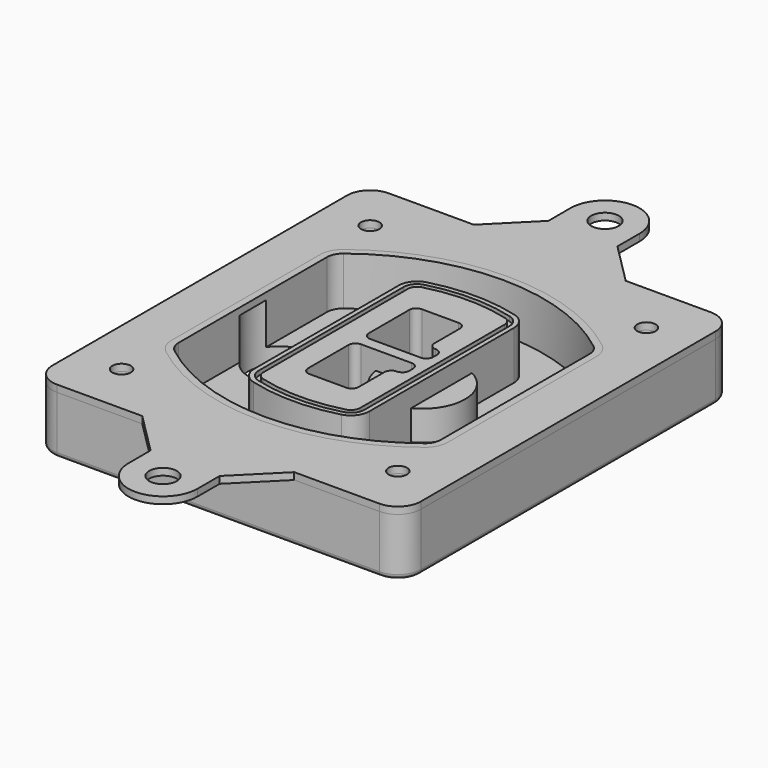
from build123d import *

# Parameters (mm, degrees)
F0_R      = 4
F1_DEPTH  = 25
F2_DEPTH  = 3
F3_DEPTH  = 18
F5_DEPTH  = 21
F6_DEPTH  = 2
F8_DEPTH  = 20
F9_DEPTH  = 16
F10_DEPTH = 25
F7_R      = 6
F7_R_2    = 4
F11_DEPTH = 6
F12_R     = 2
F13_R     = 6
F13_R_2   = 4
F14_DEPTH = 3


with BuildPart() as f1:
    # F0 (on Top) → F1 (new body)
    with BuildSketch(Plane.XY):
        with BuildLine():
            ThreePointArc((-80, -80), (-77.0710678119, -87.0710678119), (-70, -90))
            Line((-70, -90), (70, -90))
            ThreePointArc((70, -90), (77.0710678119, -87.0710678119), (80, -80))
            Line((80, -80), (80, 80))
            ThreePointArc((80, 80), (77.0710678119, 87.0710678119), (70, 90))
            Line((70, 90), (-70, 90))
            ThreePointArc((-70, 90), (-77.0710678119, 87.0710678119), (-80, 80))
            Line((-80, 80), (-80, -80))
        make_face()
        with Locations((-60, -67.5)):
            Circle(F0_R, mode=Mode.SUBTRACT)
        with Locations((60, -67.5)):
            Circle(F0_R, mode=Mode.SUBTRACT)
        with Locations((-60, 67.5)):
            Circle(F0_R, mode=Mode.SUBTRACT)
        with BuildLine():
            ThreePointArc((-64, 40.2934422872), (-62.5820384798, 46.4328484224), (-58.6153846154, 51.3286200352))
            ThreePointArc((-58.6153846154, 51.3286200352), (0, 71.5), (58.6153846154, 51.3286200352))
            ThreePointArc((58.6153846154, 51.3286200352), (62.5820384798, 46.4328484224), (64, 40.2934422872))
            Line((64, 40.2934422872), (64, -40.2934422872))
            ThreePointArc((64, -40.2934422872), (62.5820384798, -46.4328484224), (58.6153846154, -51.3286200352))
            ThreePointArc((58.6153846154, -51.3286200352), (0, -71.5), (-58.6153846154, -51.3286200352))
            ThreePointArc((-58.6153846154, -51.3286200352), (-62.5820384798, -46.4328484224), (-64, -40.2934422872))
            Line((-64, -40.2934422872), (-64, 40.2934422872))
        make_face(mode=Mode.SUBTRACT)
        with Locations((60, 67.5)):
            Circle(F0_R, mode=Mode.SUBTRACT)
        with BuildLine():
            ThreePointArc((58.6153846154, 51.3286200352), (0, 71.5), (-58.6153846154, 51.3286200352))
            ThreePointArc((-58.6153846154, 51.3286200352), (-62.5820384798, 46.4328484224), (-64, 40.2934422872))
            Line((-64, 40.2934422872), (-64, -40.2934422872))
            ThreePointArc((-64, -40.2934422872), (-62.5820384798, -46.4328484224), (-58.6153846154, -51.3286200352))
            ThreePointArc((-58.6153846154, -51.3286200352), (0, -71.5), (58.6153846154, -51.3286200352))
            ThreePointArc((58.6153846154, -51.3286200352), (62.5820384798, -46.4328484224), (64, -40.2934422872))
            Line((64, -40.2934422872), (64, 40.2934422872))
            ThreePointArc((64, 40.2934422872), (62.5820384798, 46.4328484224), (58.6153846154, 51.3286200352))
        make_face()
        with BuildLine():
            Line((-60, -40.2934422872), (-60, 40.2934422872))
            ThreePointArc((-60, 40.2934422872), (-58.9871703427, 44.6787323838), (-56.1538461538, 48.1757121072))
            ThreePointArc((-56.1538461538, 48.1757121072), (0, 67.5), (56.1538461538, 48.1757121072))
            ThreePointArc((56.1538461538, 48.1757121072), (58.9871703427, 44.6787323838), (60, 40.2934422872))
            Line((60, 40.2934422872), (60, -40.2934422872))
            ThreePointArc((60, -40.2934422872), (58.9871703427, -44.6787323838), (56.1538461538, -48.1757121072))
            ThreePointArc((56.1538461538, -48.1757121072), (0, -67.5), (-56.1538461538, -48.1757121072))
            ThreePointArc((-56.1538461538, -48.1757121072), (-58.9871703427, -44.6787323838), (-60, -40.2934422872))
        make_face(mode=Mode.SUBTRACT)
        with BuildLine():
            ThreePointArc((-56.1538461538, 48.1757121072), (-58.9871703427, 44.6787323838), (-60, 40.2934422872))
            Line((-60, 40.2934422872), (-60, -40.2934422872))
            ThreePointArc((-60, -40.2934422872), (-58.9871703427, -44.6787323838), (-56.1538461538, -48.1757121072))
            ThreePointArc((-56.1538461538, -48.1757121072), (0, -67.5), (56.1538461538, -48.1757121072))
            ThreePointArc((56.1538461538, -48.1757121072), (58.9871703427, -44.6787323838), (60, -40.2934422872))
            Line((60, -40.2934422872), (60, 40.2934422872))
            ThreePointArc((60, 40.2934422872), (58.9871703427, 44.6787323838), (56.1538461538, 48.1757121072))
            ThreePointArc((56.1538461538, 48.1757121072), (0, 67.5), (-56.1538461538, 48.1757121072))
        make_face()
        with BuildLine():
            ThreePointArc((54.3076923077, 45.8110311612), (56.2910192399, 43.3631453548), (57, 40.2934422872))
            Line((57, 40.2934422872), (57, -40.2934422872))
            ThreePointArc((57, -40.2934422872), (56.2910192399, -43.3631453548), (54.3076923077, -45.8110311612))
            ThreePointArc((54.3076923077, -45.8110311612), (0, -64.5), (-54.3076923077, -45.8110311612))
            ThreePointArc((-54.3076923077, -45.8110311612), (-56.2910192399, -43.3631453548), (-57, -40.2934422872))
            Line((-57, -40.2934422872), (-57, 40.2934422872))
            ThreePointArc((-57, 40.2934422872), (-56.2910192399, 43.3631453548), (-54.3076923077, 45.8110311612))
            ThreePointArc((-54.3076923077, 45.8110311612), (0, 64.5), (54.3076923077, 45.8110311612))
        make_face(mode=Mode.SUBTRACT)
        with BuildLine():
            Line((57, -40.2934422872), (57, 40.2934422872))
            ThreePointArc((57, 40.2934422872), (56.2910192399, 43.3631453548), (54.3076923077, 45.8110311612))
            ThreePointArc((54.3076923077, 45.8110311612), (0, 64.5), (-54.3076923077, 45.8110311612))
            ThreePointArc((-54.3076923077, 45.8110311612), (-56.2910192399, 43.3631453548), (-57, 40.2934422872))
            Line((-57, 40.2934422872), (-57, -40.2934422872))
            ThreePointArc((-57, -40.2934422872), (-56.2910192399, -43.3631453548), (-54.3076923077, -45.8110311612))
            ThreePointArc((-54.3076923077, -45.8110311612), (0, -64.5), (54.3076923077, -45.8110311612))
            ThreePointArc((54.3076923077, -45.8110311612), (56.2910192399, -43.3631453548), (57, -40.2934422872))
        make_face()
    extrude(amount=-F1_DEPTH)

    # F0 (on Top) → F2 (join)
    with BuildSketch(Plane.XY):
        with BuildLine():
            ThreePointArc((-56.1538461538, 48.1757121072), (-58.9871703427, 44.6787323838), (-60, 40.2934422872))
            Line((-60, 40.2934422872), (-60, -40.2934422872))
            ThreePointArc((-60, -40.2934422872), (-58.9871703427, -44.6787323838), (-56.1538461538, -48.1757121072))
            ThreePointArc((-56.1538461538, -48.1757121072), (0, -67.5), (56.1538461538, -48.1757121072))
            ThreePointArc((56.1538461538, -48.1757121072), (58.9871703427, -44.6787323838), (60, -40.2934422872))
            Line((60, -40.2934422872), (60, 40.2934422872))
            ThreePointArc((60, 40.2934422872), (58.9871703427, 44.6787323838), (56.1538461538, 48.1757121072))
            ThreePointArc((56.1538461538, 48.1757121072), (0, 67.5), (-56.1538461538, 48.1757121072))
        make_face()
        with BuildLine():
            ThreePointArc((54.3076923077, 45.8110311612), (56.2910192399, 43.3631453548), (57, 40.2934422872))
            Line((57, 40.2934422872), (57, -40.2934422872))
            ThreePointArc((57, -40.2934422872), (56.2910192399, -43.3631453548), (54.3076923077, -45.8110311612))
            ThreePointArc((54.3076923077, -45.8110311612), (0, -64.5), (-54.3076923077, -45.8110311612))
            ThreePointArc((-54.3076923077, -45.8110311612), (-56.2910192399, -43.3631453548), (-57, -40.2934422872))
            Line((-57, -40.2934422872), (-57, 40.2934422872))
            ThreePointArc((-57, 40.2934422872), (-56.2910192399, 43.3631453548), (-54.3076923077, 45.8110311612))
            ThreePointArc((-54.3076923077, 45.8110311612), (0, 64.5), (54.3076923077, 45.8110311612))
        make_face(mode=Mode.SUBTRACT)
    extrude(amount=F2_DEPTH)

    # F0 (on Top) → F3 (cut)
    with BuildSketch(Plane.XY):
        with BuildLine():
            Line((57, -40.2934422872), (57, 40.2934422872))
            ThreePointArc((57, 40.2934422872), (56.2910192399, 43.3631453548), (54.3076923077, 45.8110311612))
            ThreePointArc((54.3076923077, 45.8110311612), (0, 64.5), (-54.3076923077, 45.8110311612))
            ThreePointArc((-54.3076923077, 45.8110311612), (-56.2910192399, 43.3631453548), (-57, 40.2934422872))
            Line((-57, 40.2934422872), (-57, -40.2934422872))
            ThreePointArc((-57, -40.2934422872), (-56.2910192399, -43.3631453548), (-54.3076923077, -45.8110311612))
            ThreePointArc((-54.3076923077, -45.8110311612), (0, -64.5), (54.3076923077, -45.8110311612))
            ThreePointArc((54.3076923077, -45.8110311612), (56.2910192399, -43.3631453548), (57, -40.2934422872))
        make_face()
    extrude(amount=-F3_DEPTH, mode=Mode.SUBTRACT)

    # F4 (on face) → F5 (join, through all)
    with BuildSketch(Plane.XY.offset(3)):
        with BuildLine():
            ThreePointArc((-25, -39.2465276821), (-23.3511545998, -44.1109737193), (-19.0842911877, -46.9702398883))
            ThreePointArc((-19.0842911877, -46.9702398883), (0, -49.5), (19.0842911877, -46.9702398883))
            ThreePointArc((19.0842911877, -46.9702398883), (23.3511545998, -44.1109737193), (25, -39.2465276821))
            Line((25, -39.2465276821), (25, 39.2465276821))
            ThreePointArc((25, 39.2465276821), (23.3511545998, 44.1109737193), (19.0842911877, 46.9702398883))
            ThreePointArc((19.0842911877, 46.9702398883), (0, 49.5), (-19.0842911877, 46.9702398883))
            ThreePointArc((-19.0842911877, 46.9702398883), (-23.3511545998, 44.1109737193), (-25, 39.2465276821))
            Line((-25, 39.2465276821), (-25, -39.2465276821))
        make_face()
        with BuildLine():
            ThreePointArc((18.5632183908, 45.0393118368), (21.7633659499, 42.89486221), (23, 39.2465276821))
            Line((23, 39.2465276821), (23, -39.2465276821))
            ThreePointArc((23, -39.2465276821), (21.7633659499, -42.89486221), (18.5632183908, -45.0393118368))
            ThreePointArc((18.5632183908, -45.0393118368), (0, -47.5), (-18.5632183908, -45.0393118368))
            ThreePointArc((-18.5632183908, -45.0393118368), (-21.7633659499, -42.89486221), (-23, -39.2465276821))
            Line((-23, -39.2465276821), (-23, 39.2465276821))
            ThreePointArc((-23, 39.2465276821), (-21.7633659499, 42.89486221), (-18.5632183908, 45.0393118368))
            ThreePointArc((-18.5632183908, 45.0393118368), (0, 47.5), (18.5632183908, 45.0393118368))
        make_face(mode=Mode.SUBTRACT)
        with BuildLine():
            Line((23, -39.2465276821), (23, 39.2465276821))
            ThreePointArc((23, 39.2465276821), (21.7633659499, 42.89486221), (18.5632183908, 45.0393118368))
            ThreePointArc((18.5632183908, 45.0393118368), (0, 47.5), (-18.5632183908, 45.0393118368))
            ThreePointArc((-18.5632183908, 45.0393118368), (-21.7633659499, 42.89486221), (-23, 39.2465276821))
            Line((-23, 39.2465276821), (-23, -39.2465276821))
            ThreePointArc((-23, -39.2465276821), (-21.7633659499, -42.89486221), (-18.5632183908, -45.0393118368))
            ThreePointArc((-18.5632183908, -45.0393118368), (0, -47.5), (18.5632183908, -45.0393118368))
            ThreePointArc((18.5632183908, -45.0393118368), (21.7633659499, -42.89486221), (23, -39.2465276821))
        make_face()
        with BuildLine():
            ThreePointArc((18.0421455939, 43.1083837852), (20.1755772999, 41.6787507007), (21, 39.2465276821))
            Line((21, 39.2465276821), (21, -39.2465276821))
            ThreePointArc((21, -39.2465276821), (20.1755772999, -41.6787507007), (18.0421455939, -43.1083837852))
            ThreePointArc((18.0421455939, -43.1083837852), (0, -45.5), (-18.0421455939, -43.1083837852))
            ThreePointArc((-18.0421455939, -43.1083837852), (-20.1755772999, -41.6787507007), (-21, -39.2465276821))
            Line((-21, -39.2465276821), (-21, 39.2465276821))
            ThreePointArc((-21, 39.2465276821), (-20.1755772999, 41.6787507007), (-18.0421455939, 43.1083837852))
            ThreePointArc((-18.0421455939, 43.1083837852), (0, 45.5), (18.0421455939, 43.1083837852))
        make_face(mode=Mode.SUBTRACT)
        with BuildLine():
            Line((21, -39.2465276821), (21, 39.2465276821))
            ThreePointArc((21, 39.2465276821), (20.1755772999, 41.6787507007), (18.0421455939, 43.1083837852))
            ThreePointArc((18.0421455939, 43.1083837852), (0, 45.5), (-18.0421455939, 43.1083837852))
            ThreePointArc((-18.0421455939, 43.1083837852), (-20.1755772999, 41.6787507007), (-21, 39.2465276821))
            Line((-21, 39.2465276821), (-21, -39.2465276821))
            ThreePointArc((-21, -39.2465276821), (-20.1755772999, -41.6787507007), (-18.0421455939, -43.1083837852))
            ThreePointArc((-18.0421455939, -43.1083837852), (0, -45.5), (18.0421455939, -43.1083837852))
            ThreePointArc((18.0421455939, -43.1083837852), (20.1755772999, -41.6787507007), (21, -39.2465276821))
        make_face()
        with BuildLine():
            Line((-8, -2.5), (14, -2.5))
            ThreePointArc((14, -2.5), (16.1213203436, -3.3786796564), (17, -5.5))
            Line((17, -5.5), (17, -7.5))
            ThreePointArc((17, -7.5), (16.1213203436, -9.6213203436), (14, -10.5))
            ThreePointArc((14, -10.5), (11.8786796564, -11.3786796564), (11, -13.5))
            Line((11, -13.5), (11, -27.5))
            ThreePointArc((11, -27.5), (10.1213203436, -29.6213203436), (8, -30.5))
            Line((8, -30.5), (-8, -30.5))
            ThreePointArc((-8, -30.5), (-10.1213203436, -29.6213203436), (-11, -27.5))
            Line((-11, -27.5), (-11, -5.5))
            ThreePointArc((-11, -5.5), (-10.1213203436, -3.3786796564), (-8, -2.5))
        make_face(mode=Mode.SUBTRACT)
        with BuildLine():
            ThreePointArc((-8, 2.5), (-10.1213203436, 3.3786796564), (-11, 5.5))
            Line((-11, 5.5), (-11, 27.5))
            ThreePointArc((-11, 27.5), (-10.1213203436, 29.6213203436), (-8, 30.5))
            Line((-8, 30.5), (8, 30.5))
            ThreePointArc((8, 30.5), (10.1213203436, 29.6213203436), (11, 27.5))
            Line((11, 27.5), (11, 13.5))
            ThreePointArc((11, 13.5), (11.8786796564, 11.3786796564), (14, 10.5))
            ThreePointArc((14, 10.5), (16.1213203436, 9.6213203436), (17, 7.5))
            Line((17, 7.5), (17, 5.5))
            ThreePointArc((17, 5.5), (16.1213203436, 3.3786796564), (14, 2.5))
            Line((14, 2.5), (-8, 2.5))
        make_face(mode=Mode.SUBTRACT)
    extrude(amount=-F5_DEPTH)

    # F4 (on face) → F6 (cut)
    with BuildSketch(Plane.XY.offset(3)):
        with BuildLine():
            Line((23, -39.2465276821), (23, 39.2465276821))
            ThreePointArc((23, 39.2465276821), (21.7633659499, 42.89486221), (18.5632183908, 45.0393118368))
            ThreePointArc((18.5632183908, 45.0393118368), (0, 47.5), (-18.5632183908, 45.0393118368))
            ThreePointArc((-18.5632183908, 45.0393118368), (-21.7633659499, 42.89486221), (-23, 39.2465276821))
            Line((-23, 39.2465276821), (-23, -39.2465276821))
            ThreePointArc((-23, -39.2465276821), (-21.7633659499, -42.89486221), (-18.5632183908, -45.0393118368))
            ThreePointArc((-18.5632183908, -45.0393118368), (0, -47.5), (18.5632183908, -45.0393118368))
            ThreePointArc((18.5632183908, -45.0393118368), (21.7633659499, -42.89486221), (23, -39.2465276821))
        make_face()
        with BuildLine():
            ThreePointArc((18.0421455939, 43.1083837852), (20.1755772999, 41.6787507007), (21, 39.2465276821))
            Line((21, 39.2465276821), (21, -39.2465276821))
            ThreePointArc((21, -39.2465276821), (20.1755772999, -41.6787507007), (18.0421455939, -43.1083837852))
            ThreePointArc((18.0421455939, -43.1083837852), (0, -45.5), (-18.0421455939, -43.1083837852))
            ThreePointArc((-18.0421455939, -43.1083837852), (-20.1755772999, -41.6787507007), (-21, -39.2465276821))
            Line((-21, -39.2465276821), (-21, 39.2465276821))
            ThreePointArc((-21, 39.2465276821), (-20.1755772999, 41.6787507007), (-18.0421455939, 43.1083837852))
            ThreePointArc((-18.0421455939, 43.1083837852), (0, 45.5), (18.0421455939, 43.1083837852))
        make_face(mode=Mode.SUBTRACT)
    extrude(amount=-F6_DEPTH, mode=Mode.SUBTRACT)

    # F7 (on face) → F8 (join)
    with BuildSketch(Plane(origin=(0, 0, -25), x_dir=(1, 0, 0), z_dir=(0, 0, -1))):
        with BuildLine():
            ThreePointArc((3.28842436, 0), (16.7567035675, 13.4682792075), (30.224982775, 0))
            Line((30.224982775, 0), (35.224982775, 0))
            ThreePointArc((35.224982775, 0), (16.7567035675, 18.4682792075), (-1.71157564, 0))
            Line((-1.71157564, 0), (3.28842436, 0))
        make_face()
        with BuildLine():
            Line((3.28842436, 0), (30.224982775, 0))
            ThreePointArc((30.224982775, 0), (16.7567035675, 13.4682792075), (3.28842436, 0))
        make_face()
        with BuildLine():
            ThreePointArc((3.28842436, 0), (16.7567035675, -13.4682792075), (30.224982775, 0))
            Line((30.224982775, 0), (3.28842436, 0))
        make_face()
        with BuildLine():
            Line((35.224982775, 0), (30.224982775, 0))
            ThreePointArc((30.224982775, 0), (16.7567035675, -13.4682792075), (3.28842436, 0))
            Line((3.28842436, 0), (-1.71157564, 0))
            ThreePointArc((-1.71157564, 0), (16.7567035675, -18.4682792075), (35.224982775, 0))
        make_face()
    extrude(amount=-F8_DEPTH)

    # F7 (on face) → F9 (cut)
    with BuildSketch(Plane(origin=(0, 0, -25), x_dir=(1, 0, 0), z_dir=(0, 0, -1))):
        with BuildLine():
            Line((3.28842436, 0), (30.224982775, 0))
            ThreePointArc((30.224982775, 0), (16.7567035675, 13.4682792075), (3.28842436, 0))
        make_face()
        with BuildLine():
            ThreePointArc((3.28842436, 0), (16.7567035675, -13.4682792075), (30.224982775, 0))
            Line((30.224982775, 0), (3.28842436, 0))
        make_face()
    extrude(amount=-F9_DEPTH, mode=Mode.SUBTRACT)

    # F7 (on face) → F10 (cut)
    with BuildSketch(Plane(origin=(0, 0, -25), x_dir=(1, 0, 0), z_dir=(0, 0, -1))):
        with BuildLine():
            Line((-59.0318229325, 0), (-32.0952645175, 0))
            ThreePointArc((-32.0952645175, 0), (-45.563543725, 13.4682792075), (-59.0318229325, 0))
        make_face()
        with BuildLine():
            ThreePointArc((-59.0318229325, 0), (-45.563543725, -13.4682792075), (-32.0952645175, 0))
            Line((-32.0952645175, 0), (-59.0318229325, 0))
        make_face()
    extrude(amount=-F10_DEPTH, mode=Mode.SUBTRACT)

    # F7 (on face) → F11 (cut)
    with BuildSketch(Plane(origin=(0, 0, -25), x_dir=(1, 0, 0), z_dir=(0, 0, -1))):
        with Locations((60, -67.5)):
            Circle(F7_R)
        with Locations((60, -67.5)):
            Circle(F7_R_2, mode=Mode.SUBTRACT)
        with Locations((60, -67.5)):
            Circle(F7_R)
        with Locations((60, -67.5)):
            Circle(F7_R_2, mode=Mode.SUBTRACT)
        with Locations((-60, -67.5)):
            Circle(F7_R)
        with Locations((-60, -67.5)):
            Circle(F7_R_2, mode=Mode.SUBTRACT)
        with Locations((-60, -67.5)):
            Circle(F7_R)
        with Locations((-60, -67.5)):
            Circle(F7_R_2, mode=Mode.SUBTRACT)
        with Locations((-60, 67.5)):
            Circle(F7_R)
        with Locations((-60, 67.5)):
            Circle(F7_R_2, mode=Mode.SUBTRACT)
        with Locations((-60, 67.5)):
            Circle(F7_R)
        with Locations((-60, 67.5)):
            Circle(F7_R_2, mode=Mode.SUBTRACT)
        with Locations((60, 67.5)):
            Circle(F7_R)
        with Locations((60, 67.5)):
            Circle(F7_R_2, mode=Mode.SUBTRACT)
        with Locations((60, 67.5)):
            Circle(F7_R)
        with Locations((60, 67.5)):
            Circle(F7_R_2, mode=Mode.SUBTRACT)
    extrude(amount=-F11_DEPTH, mode=Mode.SUBTRACT)

    # F12
    f12_edges = [f1.edges().sort_by_distance(p)[0] for p in [
        (0, -90, -25),
    ]]
    fillet(f12_edges, radius=F12_R)


with BuildPart() as f14:
    # F13 (on face) → F14 (new body, through all)
    with BuildSketch(Plane.XY):
        with BuildLine():
            Line((33, -90), (-33, -90))
            Line((-33, -90), (-15, -108))
            Line((-15, -108), (-15, -120))
            ThreePointArc((-15, -120), (0, -135), (15, -120))
            Line((15, -120), (15, -108))
            Line((15, -108), (33, -90))
        make_face()
        with Locations((0, -120)):
            Circle(F13_R, mode=Mode.SUBTRACT)
        with BuildLine():
            Line((-15, 108), (-33, 90))
            Line((-33, 90), (33, 90))
            Line((33, 90), (15, 108))
            Line((15, 108), (15, 120))
            ThreePointArc((15, 120), (0, 135), (-15, 120))
            Line((-15, 120), (-15, 108))
        make_face()
        with Locations((0, 120)):
            Circle(F13_R, mode=Mode.SUBTRACT)
        with BuildLine():
            Line((33, 90), (-33, 90))
            Line((-33, 90), (-70, 90))
            ThreePointArc((-70, 90), (-77.0710678119, 87.0710678119), (-80, 80))
            Line((-80, 80), (-80, -80))
            ThreePointArc((-80, -80), (-77.0710678119, -87.0710678119), (-70, -90))
            Line((-70, -90), (-33, -90))
            Line((-33, -90), (33, -90))
            Line((33, -90), (70, -90))
            ThreePointArc((70, -90), (77.0710678119, -87.0710678119), (80, -80))
            Line((80, -80), (80, 80))
            ThreePointArc((80, 80), (77.0710678119, 87.0710678119), (70, 90))
            Line((70, 90), (33, 90))
        make_face()
        with Locations((-60, -67.5)):
            Circle(F13_R_2, mode=Mode.SUBTRACT)
        with Locations((60, -67.5)):
            Circle(F13_R_2, mode=Mode.SUBTRACT)
        with Locations((-60, 67.5)):
            Circle(F13_R_2, mode=Mode.SUBTRACT)
        with BuildLine():
            ThreePointArc((-60, 40.2934422872), (-58.9871703427, 44.6787323838), (-56.1538461538, 48.1757121072))
            ThreePointArc((-56.1538461538, 48.1757121072), (0, 67.5), (56.1538461538, 48.1757121072))
            ThreePointArc((56.1538461538, 48.1757121072), (58.9871703427, 44.6787323838), (60, 40.2934422872))
            Line((60, 40.2934422872), (60, -40.2934422872))
            ThreePointArc((60, -40.2934422872), (58.9871703427, -44.6787323838), (56.1538461538, -48.1757121072))
            ThreePointArc((56.1538461538, -48.1757121072), (0, -67.5), (-56.1538461538, -48.1757121072))
            ThreePointArc((-56.1538461538, -48.1757121072), (-58.9871703427, -44.6787323838), (-60, -40.2934422872))
            Line((-60, -40.2934422872), (-60, 40.2934422872))
        make_face(mode=Mode.SUBTRACT)
        with Locations((60, 67.5)):
            Circle(F13_R_2, mode=Mode.SUBTRACT)
        with BuildLine():
            Line((33, 90), (-33, 90))
            Line((-33, 90), (-70, 90))
            ThreePointArc((-70, 90), (-77.0710678119, 87.0710678119), (-80, 80))
            Line((-80, 80), (-80, -80))
            ThreePointArc((-80, -80), (-77.0710678119, -87.0710678119), (-70, -90))
            Line((-70, -90), (-33, -90))
            Line((-33, -90), (33, -90))
            Line((33, -90), (70, -90))
            ThreePointArc((70, -90), (77.0710678119, -87.0710678119), (80, -80))
            Line((80, -80), (80, 80))
            ThreePointArc((80, 80), (77.0710678119, 87.0710678119), (70, 90))
            Line((70, 90), (33, 90))
        make_face()
        with Locations((-60, -67.5)):
            Circle(F13_R_2, mode=Mode.SUBTRACT)
        with Locations((60, -67.5)):
            Circle(F13_R_2, mode=Mode.SUBTRACT)
        with Locations((-60, 67.5)):
            Circle(F13_R_2, mode=Mode.SUBTRACT)
        with BuildLine():
            ThreePointArc((-60, 40.2934422872), (-58.9871703427, 44.6787323838), (-56.1538461538, 48.1757121072))
            ThreePointArc((-56.1538461538, 48.1757121072), (0, 67.5), (56.1538461538, 48.1757121072))
            ThreePointArc((56.1538461538, 48.1757121072), (58.9871703427, 44.6787323838), (60, 40.2934422872))
            Line((60, 40.2934422872), (60, -40.2934422872))
            ThreePointArc((60, -40.2934422872), (58.9871703427, -44.6787323838), (56.1538461538, -48.1757121072))
            ThreePointArc((56.1538461538, -48.1757121072), (0, -67.5), (-56.1538461538, -48.1757121072))
            ThreePointArc((-56.1538461538, -48.1757121072), (-58.9871703427, -44.6787323838), (-60, -40.2934422872))
            Line((-60, -40.2934422872), (-60, 40.2934422872))
        make_face(mode=Mode.SUBTRACT)
        with Locations((60, 67.5)):
            Circle(F13_R_2, mode=Mode.SUBTRACT)
    extrude(amount=F14_DEPTH)


solid = Compound([f1.part, f14.part])
